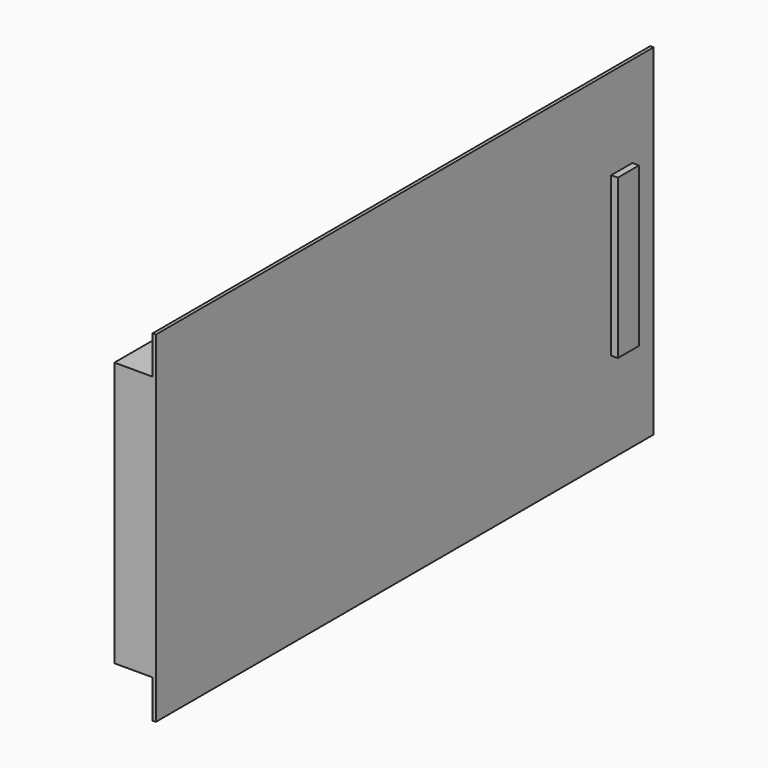
from build123d import *

# Parameters (mm, degrees)
F0_W     = 596.9
F0_H     = 254
F1_DEPTH = 36.576
F2_W     = 596.9
F2_H     = 327.152
F3_DEPTH = 3.175
F4_W     = 25.4
F4_H     = 152.4
F5_DEPTH = 6.35


with BuildPart() as f1:
    # F0 (on Right) → F1 (new body)
    with BuildSketch(Plane.YZ):
        Rectangle(F0_W, F0_H)
    extrude(amount=F1_DEPTH)

    # F2 (on face) → F3 (join)
    with BuildSketch(Plane.YZ.offset(36.576)):
        Rectangle(F2_W, F2_H)
    extrude(amount=F3_DEPTH)

    # F4 (on face) → F5 (join)
    with BuildSketch(Plane.YZ.offset(39.751)):
        with Locations((260.35, 0)):
            Rectangle(F4_W, F4_H)
    extrude(amount=F5_DEPTH)


solid = f1.part
